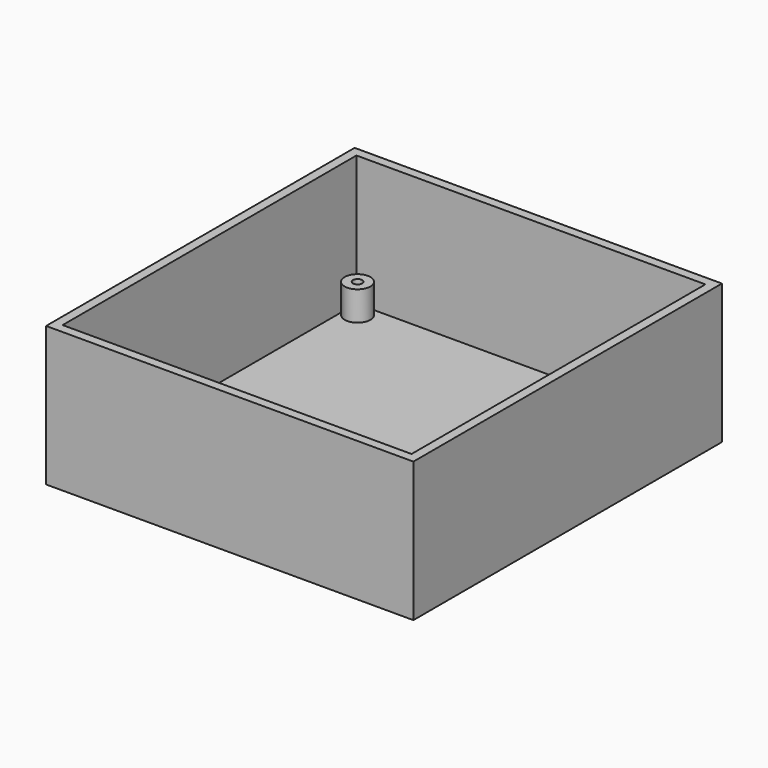
from build123d import *

# Parameters (mm, degrees)
F0_W     = 100
F0_H     = 105
F1_DEPTH = 38
F2_T     = -2.5
F4_R     = 3.5
F4_R_2   = 1.25
F5_DEPTH = 8


with BuildPart() as f1:
    # F0 (on Top) → F1 (new body)
    with BuildSketch(Plane.XY):
        with Locations((0, -7.5)):
            Rectangle(F0_W, F0_H)
    extrude(amount=F1_DEPTH)

    # F2
    f2_openings = [f1.faces().sort_by_distance(p)[0] for p in [
        (0, -7.5, 38),
    ]]
    offset(amount=F2_T, openings=f2_openings)


with BuildPart() as f5:
    # F4 (on offset) → F5 (new body)
    with BuildSketch(Plane.XY.offset(2.5)):
        with Locations((44, 38.5)):
            Circle(F4_R)
        with Locations((44, 38.5)):
            Circle(F4_R_2, mode=Mode.SUBTRACT)
    extrude(amount=F5_DEPTH)


with BuildPart() as f5b:
    # F4 (on offset) → F5, piece 2 (new body)
    with BuildSketch(Plane.XY.offset(2.5)):
        with Locations((-44, 38.5)):
            Circle(F4_R)
        with Locations((-44, 38.5)):
            Circle(F4_R_2, mode=Mode.SUBTRACT)
    extrude(amount=F5_DEPTH)


with BuildPart() as f5c:
    # F4 (on offset) → F5, piece 3 (new body)
    with BuildSketch(Plane.XY.offset(2.5)):
        with Locations((-44, -26.5)):
            Circle(F4_R)
        with Locations((-44, -26.5)):
            Circle(F4_R_2, mode=Mode.SUBTRACT)
    extrude(amount=F5_DEPTH)


with BuildPart() as f5d:
    # F4 (on offset) → F5, piece 4 (new body)
    with BuildSketch(Plane.XY.offset(2.5)):
        with Locations((44, -26.5)):
            Circle(F4_R)
        with Locations((44, -26.5)):
            Circle(F4_R_2, mode=Mode.SUBTRACT)
    extrude(amount=F5_DEPTH)


solid = Compound([f1.part, f5.part, f5b.part, f5c.part, f5d.part])
